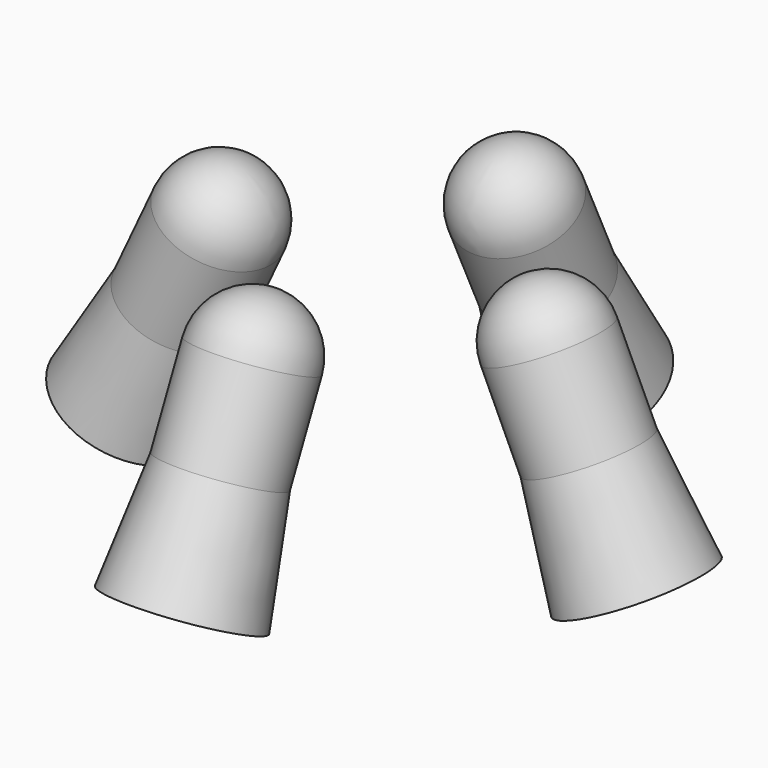
from build123d import *

# Parameters (mm, degrees)
CYLINDER005_R             = 120
CYLINDER005_DEPTH         = 200
FUSION002_PLACEMENT_ANGLE = 25
ARRAY001_COUNT            = 4


with BuildPart() as cone004:
    # Cone004 → Cone004 (revolve)
    with BuildSketch(Plane(origin=(0, 0, -200), x_dir=(-1, 0, 0), z_dir=(0, -1, 0))):
        Polygon((0, 0), (120, 0), (150, 240), (0, 240), align=None)
    revolve(axis=Axis((0, 0, -200), (0, 0, -1)))


with BuildPart() as sphere:
    # Sphere → Sphere (revolve)
    with BuildSketch(Plane.XZ):
        with BuildLine():
            ThreePointArc((0, -120), (120, 0), (0, 120))
            Line((0, 120), (0, -120))
        make_face()
    revolve(axis=Axis((0, 0, 0), (0, 0, 1)))


with BuildPart() as array001:
    # Cylinder005 → Cylinder005 (new body)
    with BuildSketch(Plane(origin=(0, 0, 0), x_dir=(-1, 0, 0), z_dir=(0, 0, -1))):
        Circle(CYLINDER005_R)
    extrude(amount=CYLINDER005_DEPTH)

    # Fusion002: union Cone004, Sphere
    add(cone004.part)
    add(sphere.part)


with BuildPart() as array001_1:
    # Fusion002 placement: moved
    add(array001.part.moved(Location((-350, 0, -1100))).rotate(Axis((-350, 0, -1100), (0, 1, 0)), FUSION002_PLACEMENT_ANGLE))

    # Array001: Array001 ×4 about axis
    array001_axis = Axis((0, 0, 1), (0, 0, 1))


with BuildPart() as array001_2:
    add(array001_1.part)
    for i in range(1, ARRAY001_COUNT):
        add(array001_1.part.rotate(array001_axis, i * 360 / ARRAY001_COUNT))


solid = array001_2.part
